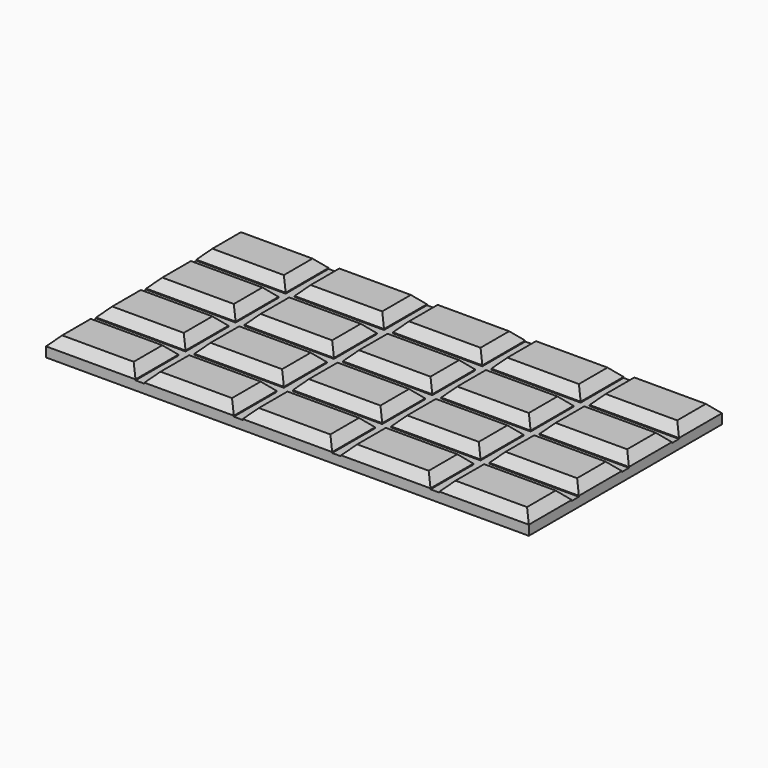
from build123d import *

# Parameters (mm, degrees)
BOX001_W      = 10
BOX001_H      = 6
BOX001_DEPTH  = 1.1
CHAMFER_SIZE  = 1
ARRAY_X_COUNT = 5
ARRAY_X_PITCH = 11
ARRAY_Y_COUNT = 4
ARRAY_Y_PITCH = 7
BOX_W         = 54
BOX_H         = 27
BOX_DEPTH     = 1


with BuildPart() as array:
    # Box001 → Box001 (new body)
    with BuildSketch(Plane.XY.offset(1)):
        with Locations((5, 3)):
            Rectangle(BOX001_W, BOX001_H)
    extrude(amount=BOX001_DEPTH)

    # Chamfer
    chamfer_edges = [array.edges().sort_by_distance(p)[0] for p in [
        (0, 3, 2.1),
        (10, 3, 2.1),
        (5, 0, 2.1),
        (5, 6, 2.1),
    ]]
    chamfer(chamfer_edges, length=CHAMFER_SIZE)

    # Array X: Array ×5


with BuildPart() as array_1:
    add(array.part)
    with Locations(*[(i * ARRAY_X_PITCH, 0, 0) for i in range(1, ARRAY_X_COUNT)]):
        add(array.part)

    # Array Y: Array ×4


with BuildPart() as array_2:
    add(array_1.part)
    with Locations(*[(0, i * ARRAY_Y_PITCH, 0) for i in range(1, ARRAY_Y_COUNT)]):
        add(array_1.part)


with BuildPart() as fusion:
    # Box → Box (new body)
    with BuildSketch(Plane.XY):
        with Locations((27, 13.5)):
            Rectangle(BOX_W, BOX_H)
    extrude(amount=BOX_DEPTH)

    # Fusion: union Array
    add(array_2.part)


solid = fusion.part
